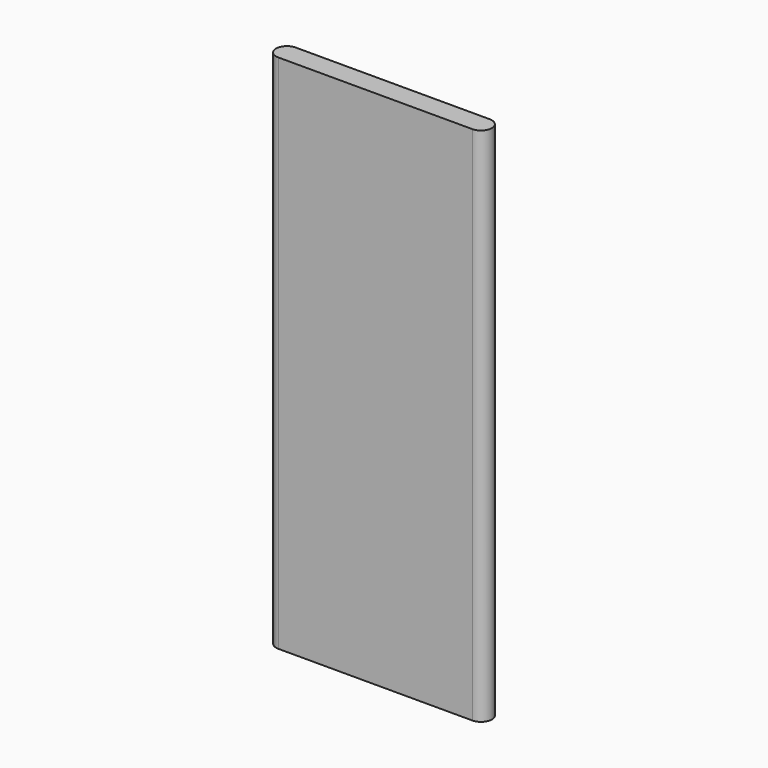
from build123d import *

# Parameters (mm, degrees)
PAD_DEPTH = 241.3


with BuildPart() as part:
    # Sketch → Pad (new body)
    with BuildSketch(Plane.XY):
        with BuildLine():
            Line((-45.000003, -5), (45, -5))
            ThreePointArc((45, -5), (49.955242, 0), (45, 5))
            Line((45, 5), (-45, 5))
            ThreePointArc((-45, 5), (-50.020987, 1e-06), (-45.000003, -5))
        make_face()
    extrude(amount=PAD_DEPTH)


solid = part.part
